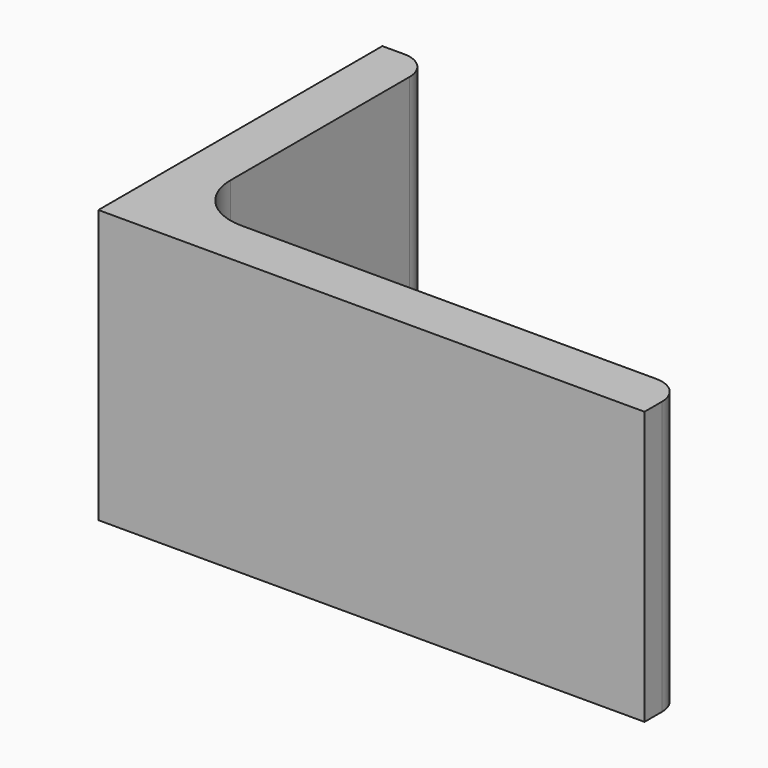
from build123d import *

# Parameters (mm, degrees)
EXTRUDE_DEPTH = 50


with BuildPart() as part:
    # Sketch → Extrude (new body)
    with BuildSketch(Plane.XY):
        with BuildLine():
            Line((0, 0), (100, 0))
            Line((100, 0), (100, 4))
            ThreePointArc((100, 4), (98.535534, 7.535534), (95, 9))
            Line((95, 9), (19, 9))
            ThreePointArc((9, 19), (11.928932, 11.928932), (19, 9))
            Line((9, 60), (9, 19))
            ThreePointArc((9, 60), (7.535534, 63.535534), (4, 65))
            Line((0, 65), (4, 65))
            Line((0, 0), (0, 65))
        make_face()
    extrude(amount=EXTRUDE_DEPTH)


solid = part.part
